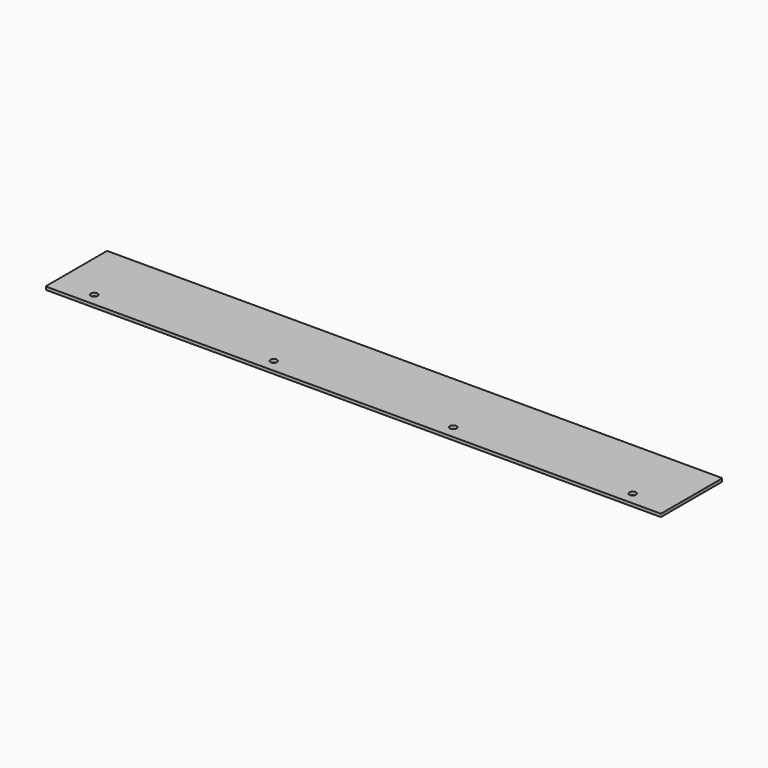
from build123d import *

# Parameters (mm, degrees)
SKETCH_R  = 3.302
PAD_DEPTH = 3


with BuildPart() as part:
    # Sketch → Pad (new body)
    with BuildSketch(Plane.XY):
        with BuildLine():
            ThreePointArc((-303.8, 38.1), (-304.507107, 37.807107), (-304.8, 37.1))
            Line((-304.8, -37.1), (-304.8, 37.1))
            ThreePointArc((-304.8, -37.1), (-304.507107, -37.807107), (-303.8, -38.1))
            Line((303.8, -38.1), (-303.8, -38.1))
            ThreePointArc((303.8, -38.1), (304.507107, -37.807107), (304.8, -37.1))
            Line((304.8, 37.1), (304.8, -37.1))
            ThreePointArc((304.8, 37.1), (304.507107, 37.807107), (303.8, 38.1))
            Line((-303.8, 38.1), (303.8, 38.1))
        make_face()
        with Locations((-266.7, -25.4)):
            Circle(SKETCH_R, mode=Mode.SUBTRACT)
        with Locations((-88.9, -25.4)):
            Circle(SKETCH_R, mode=Mode.SUBTRACT)
        with Locations((88.9, -25.4)):
            Circle(SKETCH_R, mode=Mode.SUBTRACT)
        with Locations((266.7, -25.4)):
            Circle(SKETCH_R, mode=Mode.SUBTRACT)
    extrude(amount=PAD_DEPTH)


solid = part.part
